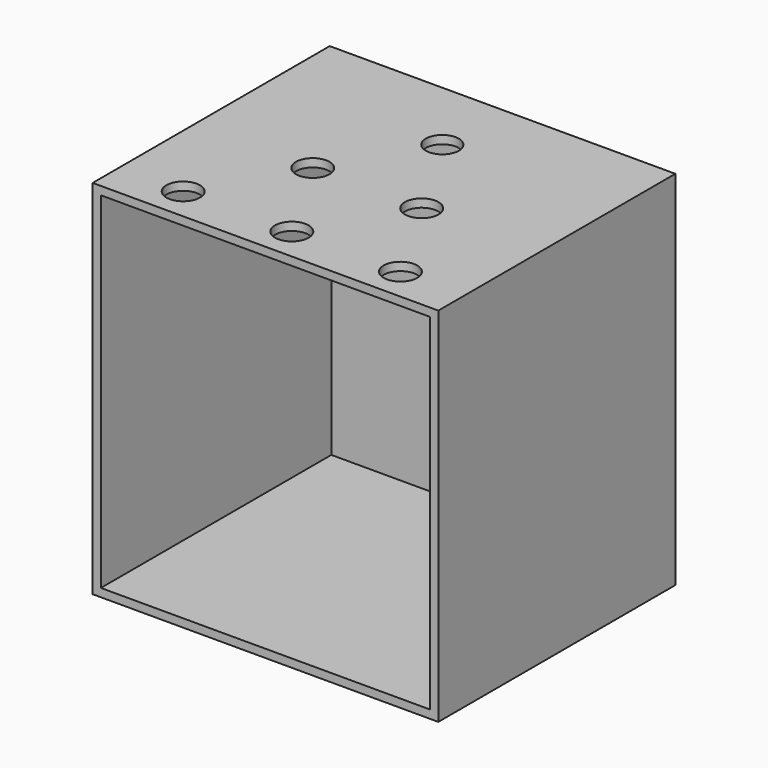
from build123d import *

# Parameters (mm, degrees)
F0_W     = 105
F0_H     = 110
F1_DEPTH = 90
F2_T     = -2.5
F3_R     = 5.1
F3_R_2   = 5
F4_DEPTH = 25


with BuildPart() as f1:
    # F0 (on Front) → F1 (new body)
    with BuildSketch(Plane.XZ):
        Rectangle(F0_W, F0_H)
    extrude(amount=F1_DEPTH)

    # F2
    f2_openings = [f1.faces().sort_by_distance(p)[0] for p in [
        (0, -90, 0),
    ]]
    offset(amount=F2_T, openings=f2_openings)

    # F3 (on face) → F4 (cut)
    with BuildSketch(Plane.XY.offset(55)):
        with Locations((16.6, -51.43)):
            Circle(F3_R)
        with Locations((33, -80)):
            Circle(F3_R)
        with Locations((0, -80)):
            Circle(F3_R)
        with Locations((-33, -80)):
            Circle(F3_R)
        with Locations((-16.5, -51.43)):
            Circle(F3_R)
        with Locations((0, -22.86)):
            Circle(F3_R_2)
    extrude(amount=-F4_DEPTH, mode=Mode.SUBTRACT)


solid = f1.part
